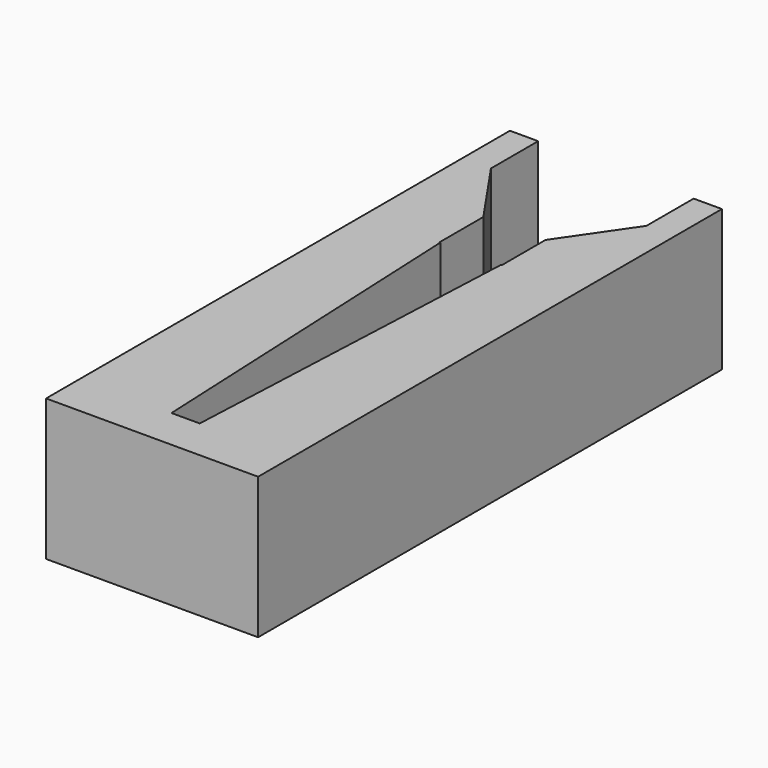
from build123d import *

# Parameters (mm, degrees)
F1_DEPTH = 25


with BuildPart() as f1:
    # F0 (on Top) → F1 (new body)
    with BuildSketch(Plane.XY):
        Polygon((2.5, -55.496175), (-2.5, -55.496175), (-5.35, 7.503825), (-5.5, 7.503825), (-5.5, 17.203825), (-13.75, 29.203825), (-13.75, 39.643136), (-18.75, 39.643136), (-18.75, -62.908523), (18.75, -62.908523), (18.75, 39.643136), (13.75, 39.643136), (13.75, 29.203825), (5.5, 17.203825), (5.5, 7.503825), (5.35, 7.503825), align=None)
    extrude(amount=F1_DEPTH)


solid = f1.part
